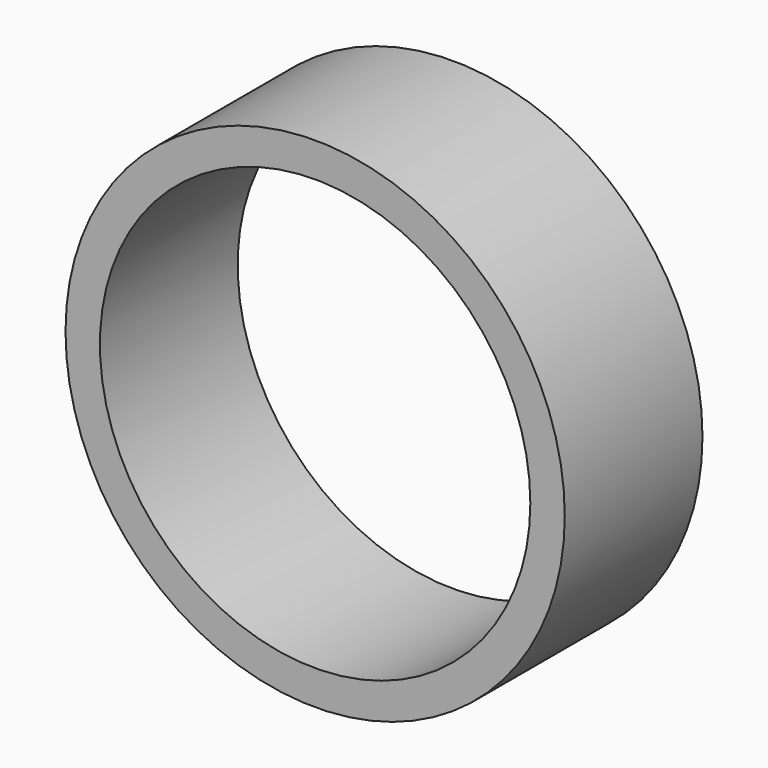
from build123d import *

# Parameters (mm, degrees)
F0_R     = 72.5
F0_R_2   = 62.5
F1_DEPTH = 50
F2_SCALE = 0.25


with BuildPart() as f1:
    # F0 (on Front) → F1 (new body)
    with BuildSketch(Plane.XZ):
        Circle(F0_R)
        Circle(F0_R_2, mode=Mode.SUBTRACT)
    extrude(amount=F1_DEPTH)


with BuildPart() as f1_1:
    # F2: moved
    add(f1.part.scale(F2_SCALE))


solid = f1_1.part
